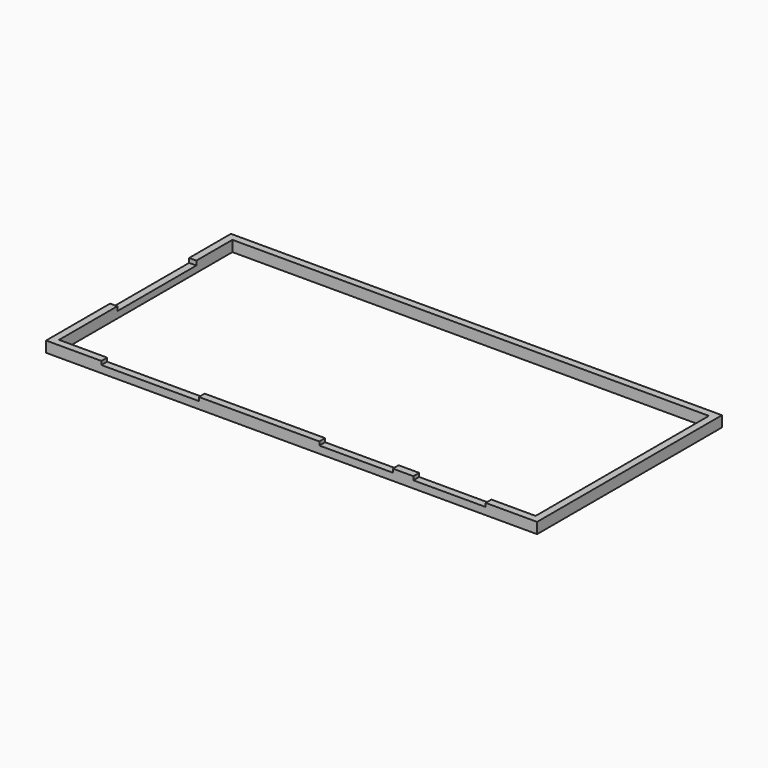
from build123d import *

# Parameters (mm, degrees)
F0_W     = 68
F0_H     = 32
F0_W_2   = 66.0000007396
F0_H_2   = 30
F2_DEPTH = 1.5
F5_START = 0.9
F3_W     = 9.7086578608
F3_H     = 13.6771607213
F5_DEPTH = 2.3
F6_START = 1
F1_W     = 13.5039854795
F1_H     = 7.9890675843
F1_W_2   = 10.1785697043
F1_W_3   = 10.0000035018
F1_H_2   = 7.8571438789
F6_DEPTH = 4.6
F7_START = 1.5
F4_W     = 54.7266360372
F4_H     = 8.1930877641
F7_DEPTH = 4


with BuildPart() as f2:
    # F0 (on Top) → F2 (new body)
    with BuildSketch(Plane.XY):
        with Locations((0, -0.0852976367)):
            Rectangle(F0_W, F0_H)
        with Locations((0, -0.0852976367)):
            Rectangle(F0_W_2, F0_H_2, mode=Mode.SUBTRACT)
    extrude(amount=F2_DEPTH)

    # F3 (on Top) → F5 (cut)
    with BuildSketch(Plane.XY.offset(F5_START)):
        with Locations((-30.4173231125, 1.8361529801)):
            Rectangle(F3_W, F3_H)
    extrude(amount=F5_DEPTH, mode=Mode.SUBTRACT)

    # F1 (on Top) → F6 (cut)
    with BuildSketch(Plane.XY.offset(F6_START)):
        with Locations((-19.5872941986, -13.5481059551)):
            Rectangle(F1_W, F1_H)
        with Locations((8.9285718277, -13.5481059551)):
            Rectangle(F1_W_2, F1_H)
        with Locations((21.8750005588, -13.4821441025)):
            Rectangle(F1_W_3, F1_H_2)
    extrude(amount=F6_DEPTH, mode=Mode.SUBTRACT)

    # F4 (on Top) → F7 (cut)
    with BuildSketch(Plane.XY.offset(F7_START)):
        with Locations((0.0114953145, 13.3686042391)):
            Rectangle(F4_W, F4_H)
    extrude(amount=F7_DEPTH, mode=Mode.SUBTRACT)


solid = f2.part
